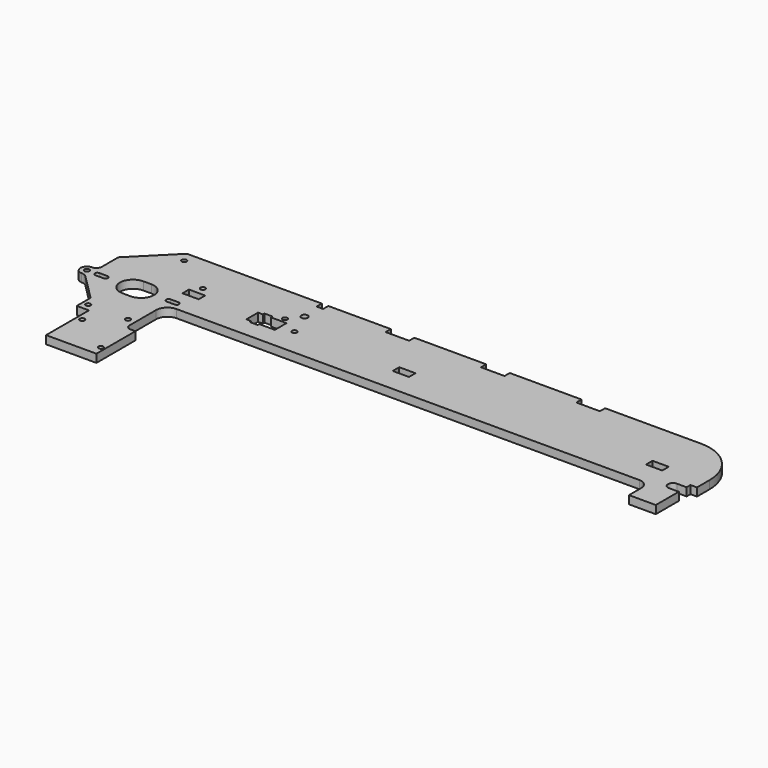
from build123d import *

# Parameters (mm, degrees)
SKETCH090_R   = 2
SKETCH090_R_2 = 1.5
SKETCH090_W   = 10
SKETCH090_H   = 5
PAD_DEPTH     = 5


with BuildPart() as part:
    # Sketch090 → Pad (new body)
    with BuildSketch(Plane.XY):
        with BuildLine():
            Line((24.5, -35), (21.5, -35))
            ThreePointArc((18.5, -32), (19.37868, -34.12132), (21.5, -35))
            Line((18.5, -32), (18.5, -11.6))
            ThreePointArc((25.5, -4.6), (20.550253, -6.650253), (18.5, -11.6))
            Line((25.5, -4.6), (310.5, -4.6))
            ThreePointArc((316.5, -10.6), (314.742641, -6.357359), (310.5, -4.6))
            Line((316.5, -10.6), (316.5, -20))
            Line((316.5, -20), (333, -20))
            Line((333, -20), (333, -2.3))
            Line((333, -2.3), (327, -2.3))
            ThreePointArc((327, 3.7), (324, 0.7), (327, -2.3))
            Line((327, 3.7), (333, 3.7))
            Line((333, 3.7), (333, 6.7))
            Line((333, 6.7), (337, 6.7))
            Line((337, 6.7), (337, 16.5))
            ThreePointArc((337, 16.5), (329.091883, 35.591883), (310, 43.5))
            Line((310, 43.5), (251, 43.5))
            Line((251, 43.5), (251, 39.5))
            Line((251, 39.5), (236.5, 39.5))
            Line((236.5, 39.5), (236.5, 43.5))
            Line((236.5, 43.5), (192.25, 43.5))
            Line((192.25, 43.5), (192.25, 39.5))
            Line((192.25, 39.5), (177.75, 39.5))
            Line((177.75, 39.5), (177.75, 43.5))
            Line((177.75, 43.5), (133.5, 43.5))
            Line((133.5, 43.5), (133.5, 39.5))
            Line((133.5, 39.5), (119, 39.5))
            Line((119, 39.5), (119, 43.5))
            Line((119, 43.5), (80.5, 43.5))
            Line((80.5, 43.5), (80.5, 39.5))
            Line((80.5, 39.5), (76.5, 39.5))
            Line((76.5, 39.5), (76.5, 43.5))
            Line((76.5, 43.5), (-6.5, 43.5))
            Line((-6.5, 43.5), (-30, 20))
            Line((-30, 20), (-30, 7.325415))
            ThreePointArc((-33.363129, 3.962285), (-30.985038, 4.947323), (-30, 7.325415))
            ThreePointArc((-33.363129, 3.962285), (-37.322286, 0), (-33.363129, -3.962285))
            ThreePointArc((-30, -5.355339), (-31.543017, -4.324328), (-33.363129, -3.962285))
            Line((-30, -5.355339), (-14, -21.355339))
            Line((-14, -21.355339), (-14, -32))
            Line((-14, -32), (-6.5, -32))
            Line((-6.5, -32), (-6.5, -65))
            Line((-6.5, -65), (24.5, -65))
            Line((24.5, -65), (24.5, -35))
        make_face()
        with Locations((78.5, 27.751426)):
            Circle(SKETCH090_R, mode=Mode.SUBTRACT)
        with Locations((-3.05, -41.5)):
            Circle(SKETCH090_R_2, mode=Mode.SUBTRACT)
        with Locations((84.5, 12.5)):
            Circle(SKETCH090_R_2, mode=Mode.SUBTRACT)
        with Locations((22.05, -58.5)):
            Circle(SKETCH090_R_2, mode=Mode.SUBTRACT)
        with Locations((72.5, 20.1)):
            Circle(SKETCH090_R_2, mode=Mode.SUBTRACT)
        with Locations((-33.363129, 0)):
            Circle(SKETCH090_R_2, mode=Mode.SUBTRACT)
        with Locations((-10.5, -27.55)):
            Circle(SKETCH090_R_2, mode=Mode.SUBTRACT)
        with Locations((14, -27.55)):
            Circle(SKETCH090_R_2, mode=Mode.SUBTRACT)
        with Locations((-3.05, 37)):
            Circle(SKETCH090_R_2, mode=Mode.SUBTRACT)
        with Locations((22.05, 20)):
            Circle(SKETCH090_R_2, mode=Mode.SUBTRACT)
        Polygon((66.42768, 17), (66.42768, 18.193898), (61.42768, 18.193898), (61.42768, 17), (58.42768, 17), (58.42768, 8), (61.42768, 8), (61.42768, 6.806102), (66.42768, 6.806102), (66.42768, 8), (76, 8), (76, 17), align=None, mode=Mode.SUBTRACT)
        with BuildLine():
            ThreePointArc((21.92031, -1.500002), (23.42, -2e-06), (21.92031, 1.499998))
            Line((21.92031, 1.499998), (16.92031, 1.5))
            ThreePointArc((16.92031, 1.5), (15.42031, 0), (16.92031, -1.5))
            Line((16.92031, -1.5), (21.92031, -1.500002))
        make_face(mode=Mode.SUBTRACT)
        with BuildLine():
            Line((-21.92031, 1.5), (-26.92031, 1.5))
            ThreePointArc((-26.92031, 1.5), (-28.42031, 0), (-26.92031, -1.5))
            Line((-26.92031, -1.5), (-21.92031, -1.5))
            ThreePointArc((-21.92031, -1.5), (-20.42, 0), (-21.92031, 1.5))
        make_face(mode=Mode.SUBTRACT)
        with Locations((152, 12.5)):
            Rectangle(SKETCH090_W, SKETCH090_H, mode=Mode.SUBTRACT)
        with Locations((308, 12.5)):
            Rectangle(SKETCH090_W, SKETCH090_H, mode=Mode.SUBTRACT)
        with BuildLine():
            Line((-5, -8), (0, -8))
            ThreePointArc((0, -8), (8, 0), (0, 8))
            Line((0, 8), (-5, 8))
            ThreePointArc((-5, 8), (-13, 0), (-5, -8))
        make_face(mode=Mode.SUBTRACT)
        with Locations((22.5, 12.5)):
            Rectangle(SKETCH090_W, SKETCH090_H, mode=Mode.SUBTRACT)
    extrude(amount=PAD_DEPTH)


solid = part.part
